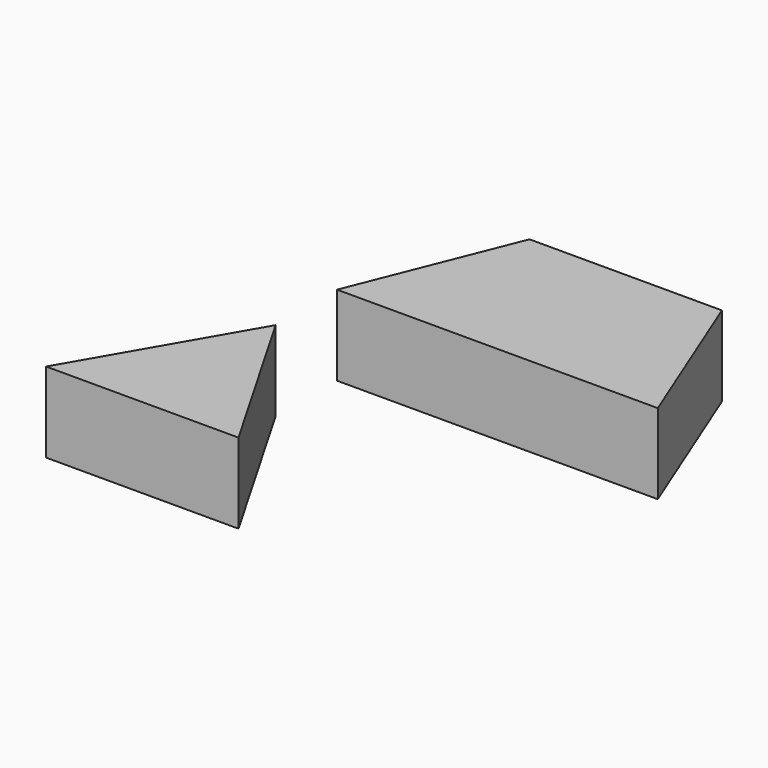
from build123d import *

# Parameters (mm, degrees)
F1_DEPTH = 25
F2_DEPTH = 25


with BuildPart() as f1:
    # F0 (on Top) → F1 (new body)
    with BuildSketch(Plane.XY):
        Polygon((30, -51.961524), (0, 0), (-30, -51.961524), align=None)
        Polygon((20, 73.948319), (0, 23.948319), (100, 23.948319), (80, 73.948319), align=None)
    extrude(amount=F1_DEPTH)


with BuildPart() as f2:
    # F0 (on Top) → F2 (new body)
    with BuildSketch(Plane.XY):
        Polygon((30, -51.961524), (0, 0), (-30, -51.961524), align=None)
        Polygon((20, 73.948319), (0, 23.948319), (100, 23.948319), (80, 73.948319), align=None)
    extrude(amount=F2_DEPTH)


solid = Compound([f1.part, f2.part])
